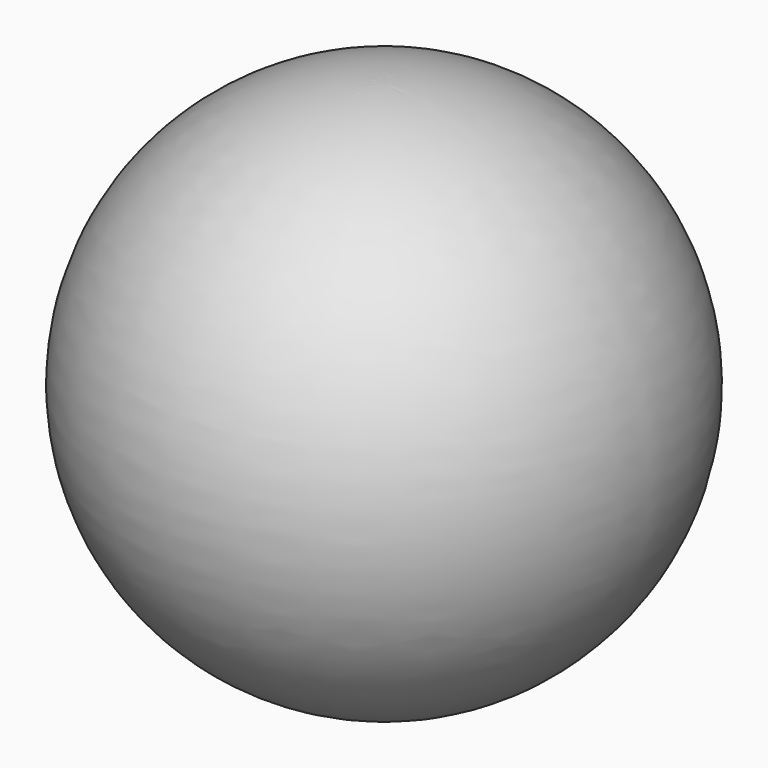
from build123d import *


with BuildPart() as f1:
    # F0 (on Front) → F1 (revolve)
    with BuildSketch(Plane.XZ):
        with BuildLine():
            Line((2.5, 25.209801), (2.5, 0.209801))
            ThreePointArc((2.5, 0.209801), (14.947458, 16.254394), (0, 30))
            Line((0, 30), (0, 25.209801))
            Line((0, 25.209801), (2.5, 25.209801))
        make_face()
    revolve(axis=Axis((0, 0, 27.6049), (0, 0, -1)))


solid = f1.part
